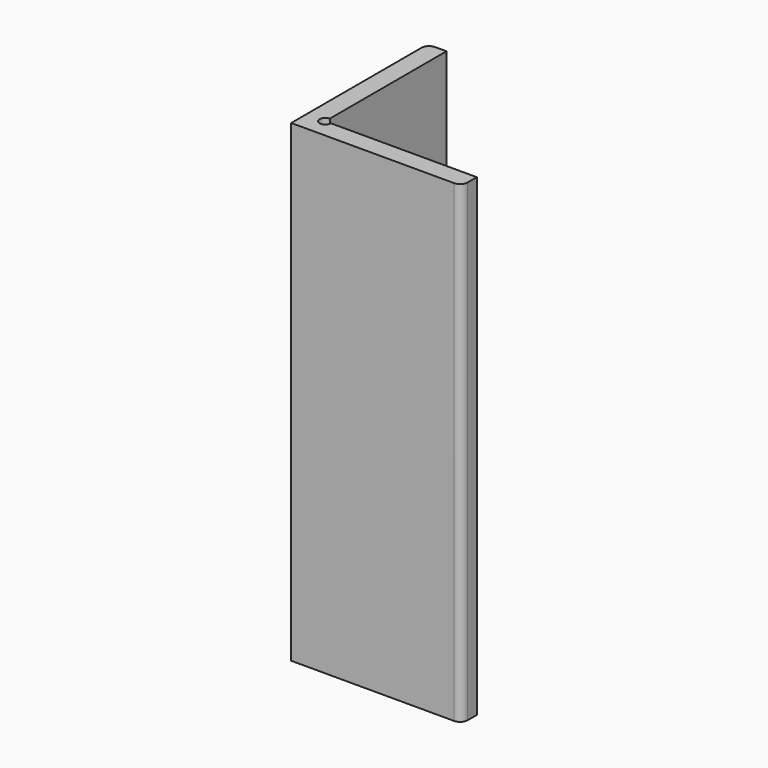
from build123d import *

# Parameters (mm, degrees)
PAD_DEPTH = 50


with BuildPart() as part:
    # Sketch → Pad (new body)
    with BuildSketch(Plane.XY):
        with BuildLine():
            Line((0, 17.2), (0, 0))
            Line((0, 0), (17.2, 0))
            ThreePointArc((17.2, 0), (17.765685, 0.234315), (18, 0.8))
            Line((18, 0.8), (18, 2))
            Line((18, 2), (2.6, 2))
            ThreePointArc((2, 2.6), (1.575736, 1.575736), (2.6, 2))
            Line((2, 2.6), (2, 18))
            Line((2, 18), (0.8, 18))
            ThreePointArc((0.8, 18), (0.234315, 17.765685), (0, 17.2))
        make_face()
    extrude(amount=PAD_DEPTH)


solid = part.part
